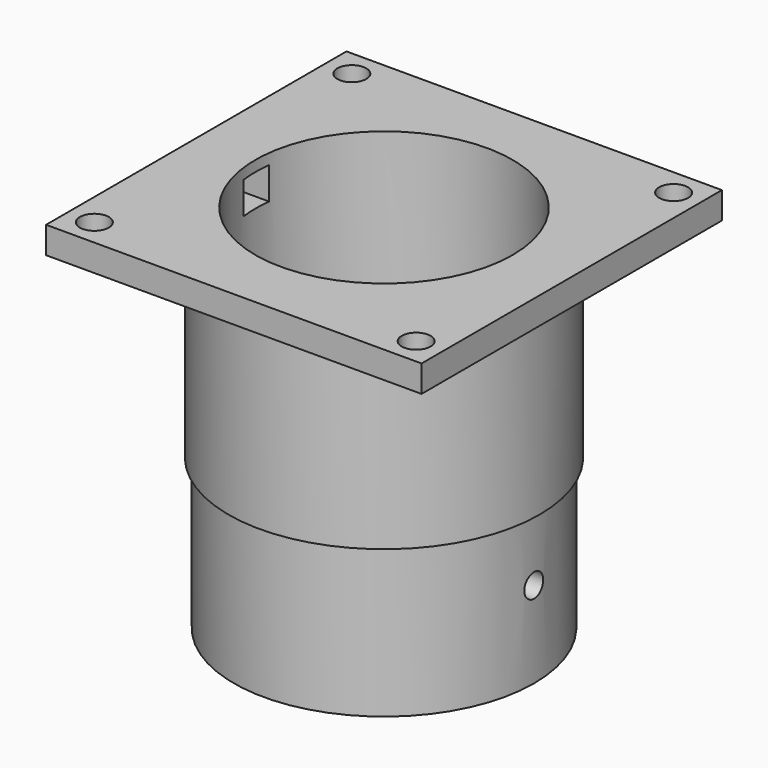
from build123d import *

# Parameters (mm, degrees)
F0_W      = 88.9
F0_H      = 88.9
F0_R      = 3.429
F1_DEPTH  = 6.35
F2_R      = 30.48
F3_DEPTH  = 6.351
F4_R      = 36.83
F4_R_2    = 30.48
F5_DEPTH  = 45.72
F6_R      = 35.56
F6_R_2    = 28.829
F7_DEPTH  = 35.56
F9_W      = 7.62
F9_H      = 7.62
F10_DEPTH = 25.49487
F11_R     = 2.794
F12_DEPTH = 44.45


with BuildPart() as f1:
    # F0 (on Top) → F1 (new body)
    with BuildSketch(Plane.XY):
        Rectangle(F0_W, F0_H)
        with Locations((-38.1, -38.1)):
            Circle(F0_R, mode=Mode.SUBTRACT)
        with Locations((38.1, -38.1)):
            Circle(F0_R, mode=Mode.SUBTRACT)
        with Locations((-38.1, 38.1)):
            Circle(F0_R, mode=Mode.SUBTRACT)
        with Locations((38.1, 38.1)):
            Circle(F0_R, mode=Mode.SUBTRACT)
    extrude(amount=F1_DEPTH)

    # F2 (on face) → F3 (cut, through all)
    with BuildSketch(Plane(origin=(0, 0, 0), x_dir=(1, 0, 0), z_dir=(0, 0, -1))):
        Circle(F2_R)
    extrude(amount=-F3_DEPTH, mode=Mode.SUBTRACT)

    # F4 (on Top) → F5 (join)
    with BuildSketch(Plane.XY):
        Circle(F4_R)
        Circle(F4_R_2, mode=Mode.SUBTRACT)
    extrude(amount=-F5_DEPTH)

    # F6 (on face) → F7 (join)
    with BuildSketch(Plane(origin=(0, 0, -45.72), x_dir=(1, 0, 0), z_dir=(0, 0, -1))):
        Circle(F6_R)
        Circle(F6_R_2, mode=Mode.SUBTRACT)
    extrude(amount=F7_DEPTH)

    # F9 (on face) → F10 (cut)
    with BuildSketch(Plane(origin=(-44.45, 0, 0), x_dir=(0, -1, 0), z_dir=(-1, 0, 0))):
        Rectangle(F9_W, F9_H)
    extrude(amount=-F10_DEPTH, mode=Mode.SUBTRACT)

    # F11 (on Right) → F12 (cut, symmetric)
    with BuildSketch(Plane.YZ):
        with Locations((0, -60.8604100329)):
            Circle(F11_R)
    extrude(amount=F12_DEPTH, both=True, mode=Mode.SUBTRACT)


solid = f1.part
